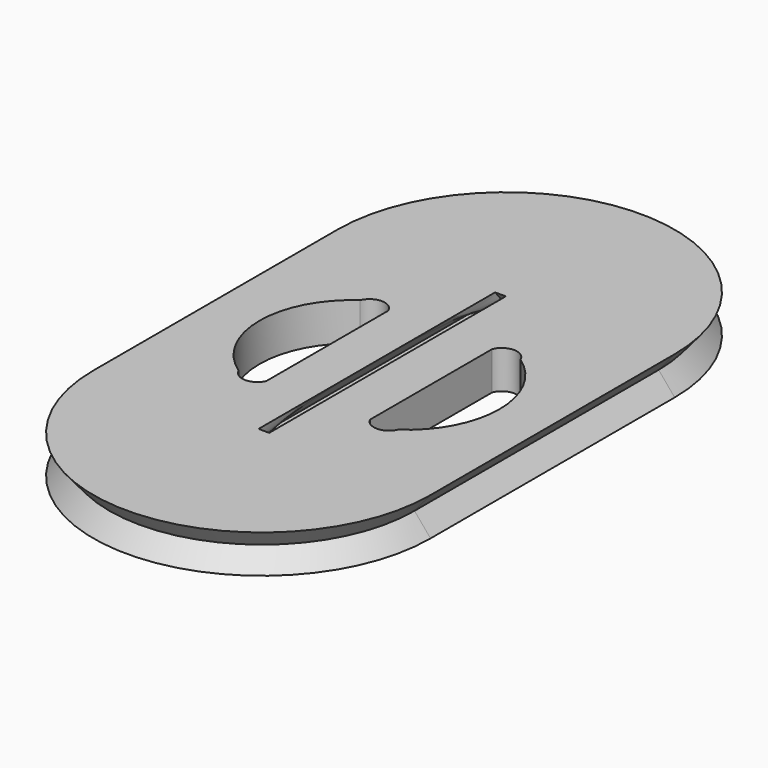
from build123d import *

# Parameters (mm, degrees)
PAD_DEPTH    = 0.25
PAD_TAPER    = -40
POCKET_DEPTH = 1


with BuildPart() as part:
    # Sketch → Pad (new body, symmetric)
    with BuildSketch(Plane.XY):
        with BuildLine():
            ThreePointArc((2, 2.538372), (0, 4.538372), (-2, 2.538372))
            Line((-2, 2.538372), (-2, -1.461628))
            ThreePointArc((-2, -1.461628), (0, -3.461628), (2, -1.461628))
            Line((2, -1.461628), (2, 2.538372))
        make_face()
        with BuildLine():
            ThreePointArc((-0.135939, 2.669636), (-0.245341, 2.62432), (-0.290657, 2.514917))
            Line((-0.290657, -1.471332), (-0.290657, 2.514917))
            ThreePointArc((-0.290657, -1.471332), (-0.245341, -1.580734), (-0.135939, -1.62605))
            Line((0.114686, -1.62605), (-0.135939, -1.62605))
            ThreePointArc((0.114686, -1.62605), (0.224088, -1.580734), (0.269404, -1.471332))
            Line((0.269404, 2.514917), (0.269404, -1.471332))
            ThreePointArc((0.269404, 2.514917), (0.224088, 2.62432), (0.114686, 2.669636))
            Line((-0.135939, 2.669636), (0.114686, 2.669636))
        make_face(mode=Mode.SUBTRACT)
    extrude(amount=PAD_DEPTH, both=True, taper=PAD_TAPER)

    # Sketch001 (on Face20 of Pad) → Pocket (cut)
    with BuildSketch(Plane.XY.offset(0.25)):
        with BuildLine():
            Line((-0.681278, 1.458789), (-0.681278, -0.541211))
            ThreePointArc((-1.044875, -0.537362), (-0.864311, -0.655939), (-0.681278, -0.541211))
            ThreePointArc((-1.051415, 1.46106), (-1.572153, 0.460134), (-1.044875, -0.537362))
            ThreePointArc((-0.681278, 1.458789), (-0.865584, 1.584104), (-1.051415, 1.46106))
        make_face()
        with BuildLine():
            Line((0.681278, 1.458789), (0.681278, -0.541211))
            ThreePointArc((0.681278, -0.541211), (0.864311, -0.655939), (1.044875, -0.537362))
            ThreePointArc((1.044875, -0.537362), (1.572153, 0.460134), (1.051415, 1.46106))
            ThreePointArc((1.051415, 1.46106), (0.865584, 1.584104), (0.681278, 1.458789))
        make_face()
    extrude(amount=-POCKET_DEPTH, mode=Mode.SUBTRACT)


solid = part.part
